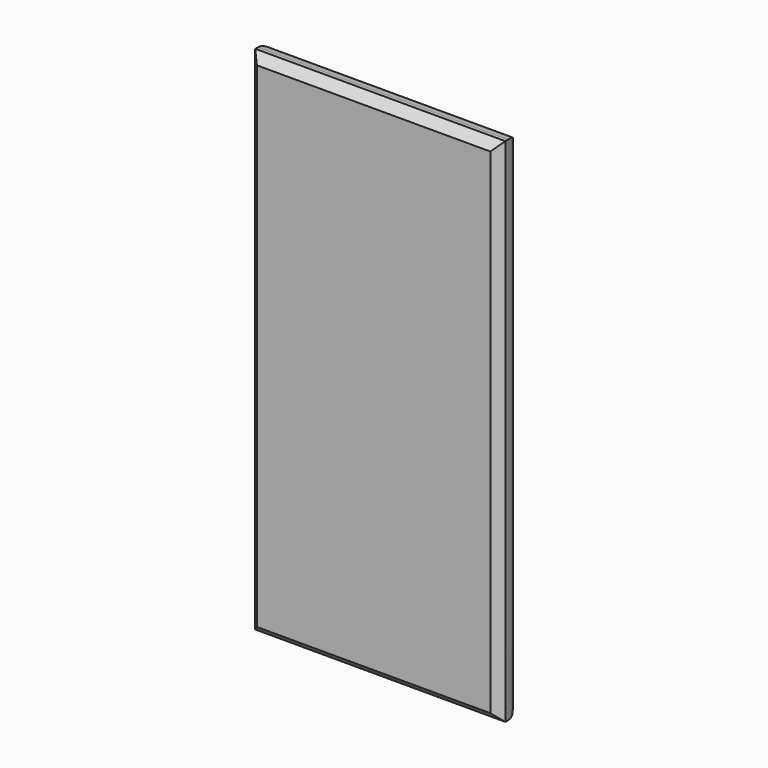
from build123d import *

# Parameters (mm, degrees)
F0_W     = 75.692
F0_H     = 154.686
F1_DEPTH = 8.636
F2_R     = 5.08
F3_SIZE  = 2.54


with BuildPart() as f1:
    # F0 (on Front) → F1 (new body)
    with BuildSketch(Plane.XZ):
        Rectangle(F0_W, F0_H)
    extrude(amount=F1_DEPTH)

    # F2
    f2_edges = [f1.edges().sort_by_distance(p)[0] for p in [
        (37.846, 0, 0),
        (0, 0, 77.343),
        (-37.846, 0, 0),
        (0, 0, -77.343),
    ]]
    fillet(f2_edges, radius=F2_R)

    # F3
    f3_edges = [f1.edges().sort_by_distance(p)[0] for p in [
        (0, -8.636, 77.343),
        (-37.846, -8.636, 0),
        (0, -8.636, -77.343),
        (37.846, -8.636, 0),
    ]]
    chamfer(f3_edges, length=F3_SIZE)


solid = f1.part
